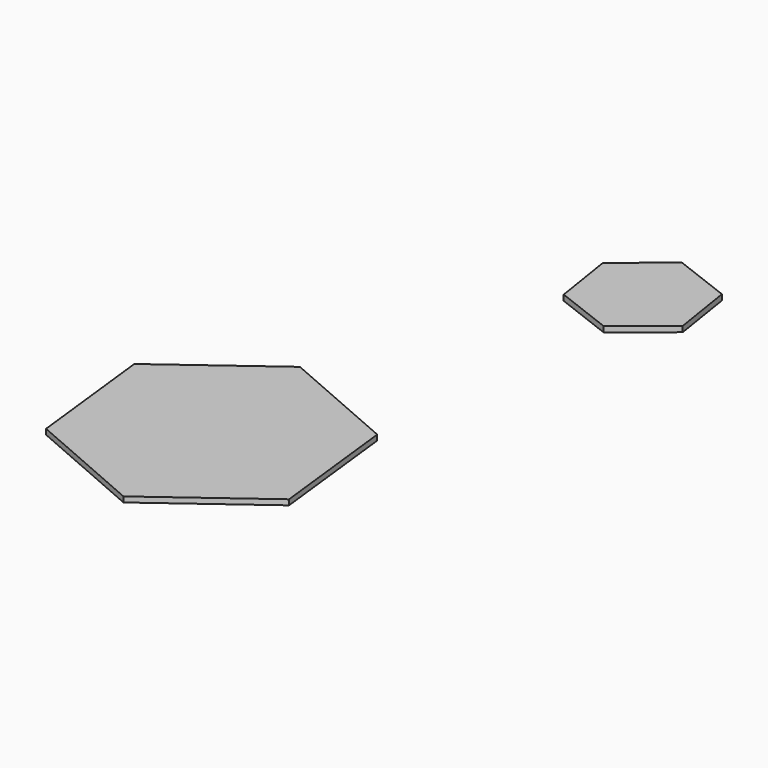
from build123d import *

# Parameters (mm, degrees)
F2_DEPTH = 6.939414
F4_DEPTH = 6.652863


with BuildPart() as f2:
    # F1 (on face) → F2 (new body)
    with BuildSketch(Plane.XY):
        Polygon((-75.069732, -28.437607), (-3.334372, -56.011856), (56.413308, -7.674336), (44.425628, 68.237432), (-27.309732, 95.81168), (-87.057412, 47.474161), align=None)
    extrude(amount=-F2_DEPTH)


with BuildPart() as f4:
    # F3 (on Top) → F4 (new body)
    with BuildSketch(Plane.XY):
        Polygon((-135.842279, -637.279237), (-6.410269, -541.523166), (-24.621455, -381.553721), (-172.264651, -317.340349), (-301.69666, -413.096421), (-283.485474, -573.065865), align=None)
    extrude(amount=F4_DEPTH)


solid = Compound([f2.part, f4.part])
